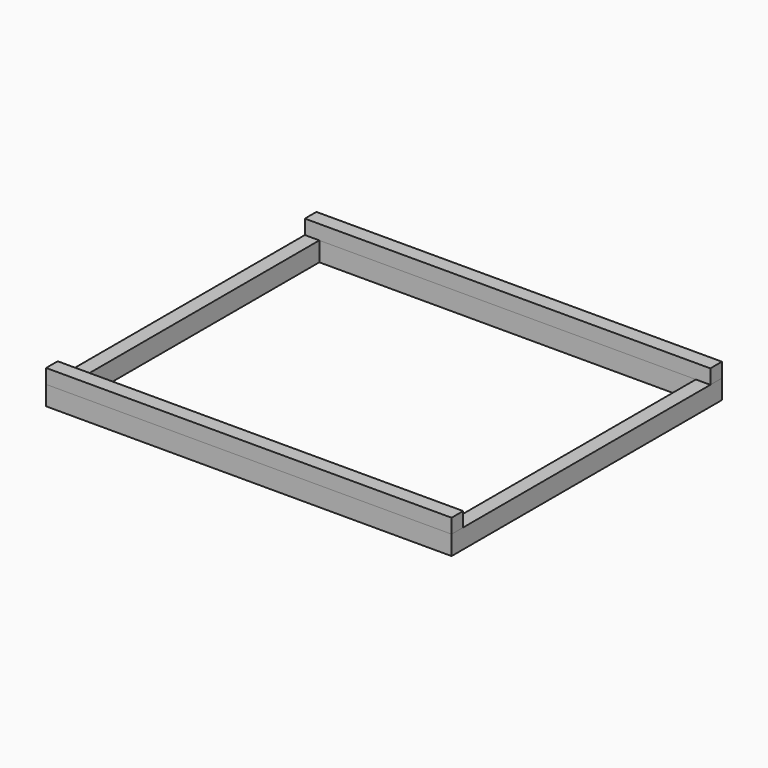
from build123d import *

# Parameters (mm, degrees)
F0_W     = 4200
F0_H     = 3500
F0_W_2   = 3900
F0_H_2   = 3200
F1_DEPTH = 200
F2_W     = 150
F2_H     = 150
F3_DEPTH = 4200


with BuildPart() as f1:
    # F0 (on Top) → F1 (new body)
    with BuildSketch(Plane.XY):
        with Locations((2100, 1750)):
            Rectangle(F0_W, F0_H)
        with Locations((2100, 1750)):
            Rectangle(F0_W_2, F0_H_2, mode=Mode.SUBTRACT)
    extrude(amount=F1_DEPTH)


with BuildPart() as f3:
    # F2 (on face) → F3 (new body)
    with BuildSketch(Plane.YZ.offset(4200)):
        with Locations((75, 275)):
            Rectangle(F2_W, F2_H)
        with Locations((3425, 275)):
            Rectangle(F2_W, F2_H)
    extrude(amount=-F3_DEPTH)


solid = Compound([f1.part, f3.part])
